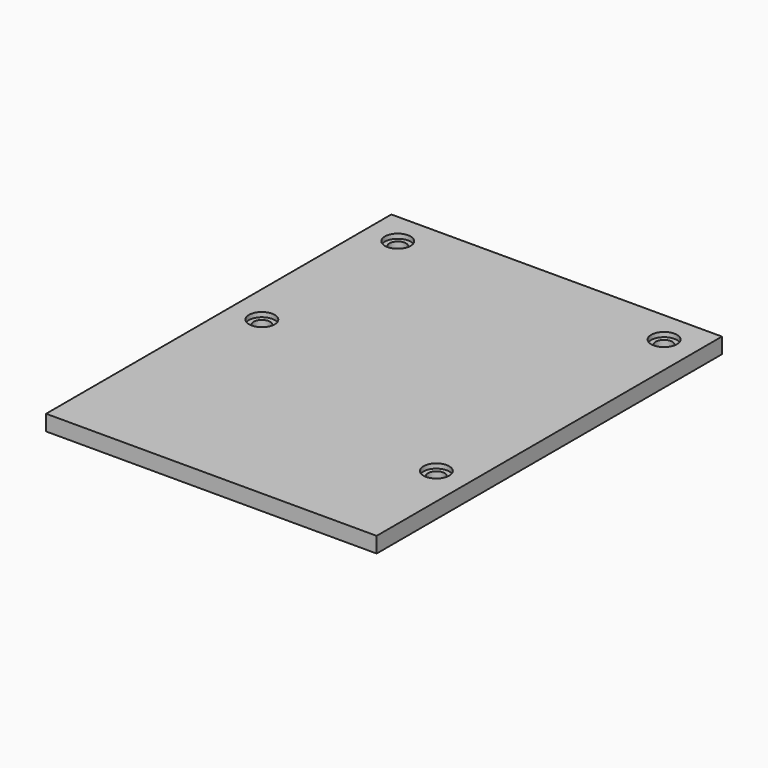
from build123d import *

# Parameters (mm, degrees)
F0_W           = 360
F0_H           = 470
F1_DEPTH       = 17
F2_D           = 18
F2_CBORE_D     = 28
F2_CBORE_DEPTH = 5


with BuildPart() as f1:
    # F0 (on Top) → F1 (new body)
    with BuildSketch(Plane.XY):
        with Locations((-180, 235)):
            Rectangle(F0_W, F0_H)
    extrude(amount=-F1_DEPTH)

    # F2 (through all)
    with Locations(Plane.XY):
        with Locations((-325, 435), (-325, 250), (-35, 125), (-35, 435)):
            CounterBoreHole(F2_D / 2, F2_CBORE_D / 2, F2_CBORE_DEPTH)


solid = f1.part
